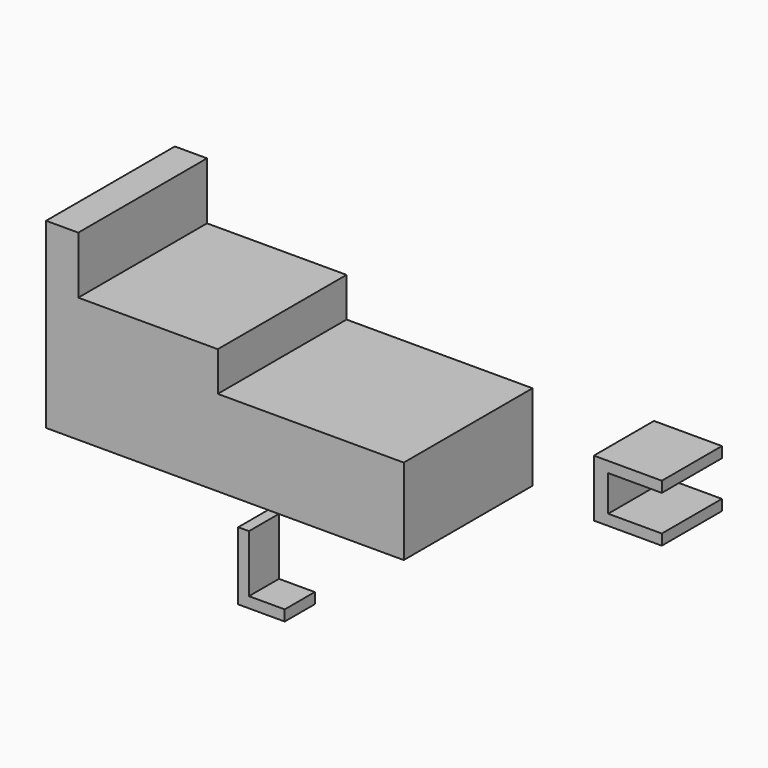
from build123d import *

# Parameters (mm, degrees)
F0_W     = 52
F0_H     = 24
F1_DEPTH = 45
F3_DEPTH = 21
F4_W     = 3
F4_H     = 16
F5_DEPTH = 10.5


with BuildPart() as f1:
    # F0 (on Front) → F1 (new body)
    with BuildSketch(Plane.XZ):
        Polygon((-72.292375, 72.486585), (-81.292375, 72.486585), (-81.292375, 21.486585), (-33.292375, 21.486585), (-33.292375, 45.486585), (-33.292375, 56.486585), (-72.292375, 56.486585), align=None)
        with Locations((-7.292375, 33.486585)):
            Rectangle(F0_W, F0_H)
    extrude(amount=F1_DEPTH)


with BuildPart() as f3:
    # F2 (on Front) → F3 (new body)
    with BuildSketch(Plane.XZ):
        Polygon((71.659603, 48.487288), (52.659603, 48.487288), (52.659603, 32.487288), (71.659603, 32.487288), (71.659603, 35.487288), (56.659603, 35.487288), (56.659603, 45.487288), (71.659603, 45.487288), align=None)
    extrude(amount=F3_DEPTH)


with BuildPart() as f5:
    # F4 (on Front) → F5 (new body)
    with BuildSketch(Plane.XZ):
        Polygon((-52.175846, -24.469521), (-55.175846, -24.469521), (-55.175846, -27.469521), (-42.175846, -27.469521), (-42.175846, -24.469521), align=None)
        with Locations((-53.675846, -16.469521)):
            Rectangle(F4_W, F4_H)
    extrude(amount=F5_DEPTH)


solid = Compound([f1.part, f3.part, f5.part])
